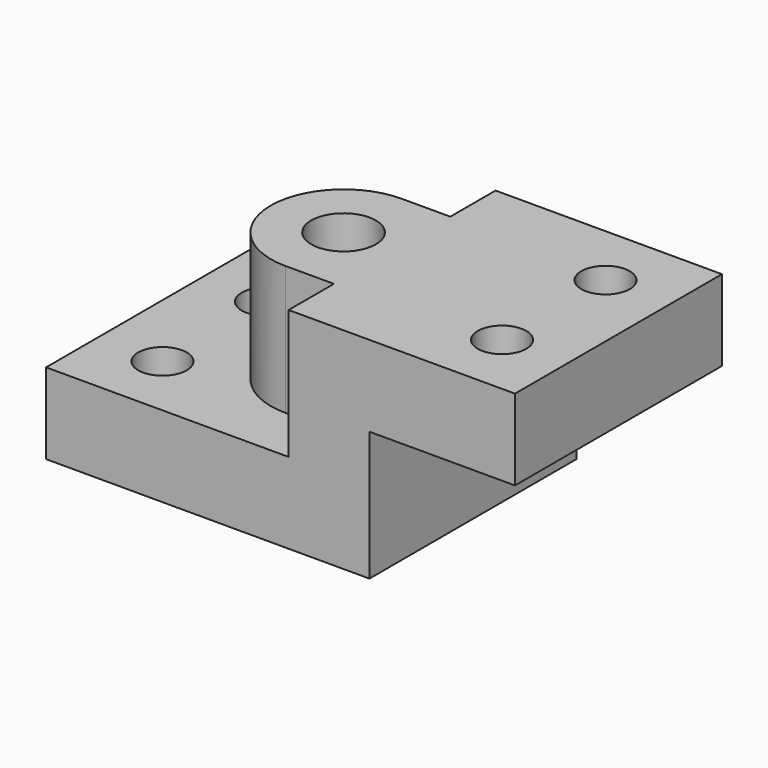
from build123d import *

# Parameters (mm, degrees)
F1_DEPTH      = 80
F2_R          = 20
F3_DEPTH      = 80
F2_R_2        = 15
F4_DEPTH      = 50.001
F4_DEPTH_BACK = 80.001


with BuildPart() as f1:
    # F0 (on Front) → F1 (new body, symmetric)
    with BuildSketch(Plane.XZ):
        Polygon((0, 0), (-150, 0), (-150, -50), (50, -50), (50, 30), (140, 30), (140, 80), (0, 80), align=None)
    extrude(amount=F1_DEPTH, both=True)

    # F2 (on face) → F3 (join)
    with BuildSketch(Plane.XY):
        with BuildLine():
            Line((0, -45), (0, 45))
            Line((0, 45), (-30, 45))
            ThreePointArc((-30, 45), (-75, 0), (-30, -45))
            Line((-30, -45), (0, -45))
        make_face()
        with Locations((-30, 0)):
            Circle(F2_R, mode=Mode.SUBTRACT)
    extrude(amount=F3_DEPTH)

    # F2 (on face) → F4 (cut, two sides)
    with BuildSketch(Plane.XY) as f4_sk:
        with Locations((-110, 40)):
            Circle(F2_R_2)
        with Locations((-110, -40)):
            Circle(F2_R_2)
        with Locations((100, -40)):
            Circle(F2_R_2)
        with Locations((100, 40)):
            Circle(F2_R_2)
        with Locations((-30, 0)):
            Circle(F2_R)
    extrude(amount=-F4_DEPTH, mode=Mode.SUBTRACT)
    extrude(f4_sk.sketch, amount=F4_DEPTH_BACK, mode=Mode.SUBTRACT)


solid = f1.part
